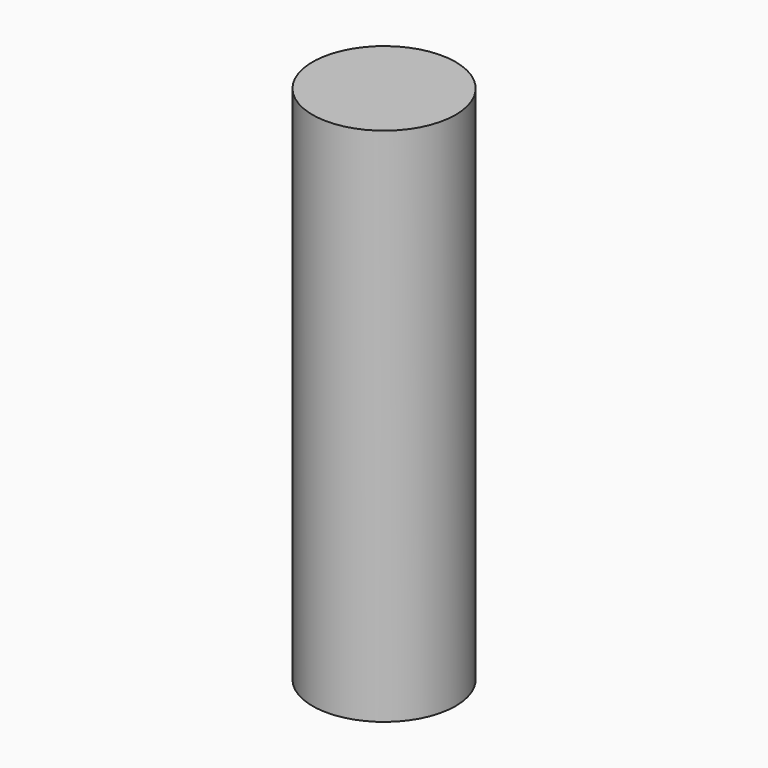
from build123d import *

# Parameters (mm, degrees)
F0_R     = 2.75
F1_DEPTH = 2
F2_R     = 2.75
F2_R_2   = 0.5
F3_DEPTH = 16
F4_R     = 2.75
F5_DEPTH = 2


with BuildPart() as f1:
    # F0 (on Top) → F1 (new body)
    with BuildSketch(Plane.XY):
        Circle(F0_R)
    extrude(amount=F1_DEPTH)

    # F2 (on face) → F3 (join)
    with BuildSketch(Plane.XY.offset(2)):
        Circle(F2_R)
        Circle(F2_R_2, mode=Mode.SUBTRACT)
    extrude(amount=F3_DEPTH)

    # F4 (on face) → F5 (join)
    with BuildSketch(Plane.XY.offset(18)):
        Circle(F4_R)
    extrude(amount=F5_DEPTH)


solid = f1.part
